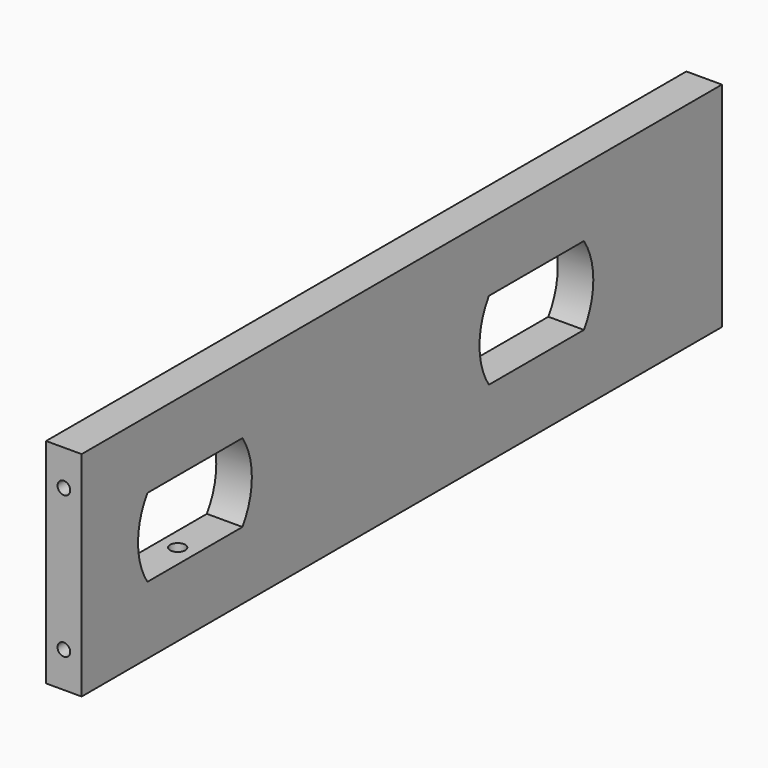
from build123d import *

# Parameters (mm, degrees)
F0_W           = 6.35
F0_H           = 142.875
F1_DEPTH       = 38.1
F3_D           = 2.7051
F3_DEPTH       = 15.0876
F3_TIP         = 0.8126940303
F6_D           = 2.2606
F6_DEPTH       = 13.7414
F6_TIP         = 0.6791527577
F6_ON_F4_D     = 2.2606
F6_ON_F4_DEPTH = 13.7414
F6_ON_F4_TIP   = 0.6791527577
F8_DEPTH       = 25.4


with BuildPart() as f1:
    # F0 (on Top) → F1 (new body)
    with BuildSketch(Plane.XY):
        Rectangle(F0_W, F0_H)
    extrude(amount=F1_DEPTH)

    # F3
    with Locations(Plane(origin=(0, 0, 0), x_dir=(1, 0, 0), z_dir=(0, 0, -1))):
        with Locations((0, 46.0375), (0, -46.0375)):
            Hole(F3_D / 2, depth=F3_DEPTH)
            with Locations((0, 0, -(F3_DEPTH + F3_TIP / 2))):  # 118° drill point
                Cone(0, F3_D / 2, F3_TIP, mode=Mode.SUBTRACT)

    # F6
    with Locations(Plane.XZ.offset(71.4375)):
        with Locations((0, 31.75), (0, 6.35)):
            Hole(F6_D / 2, depth=F6_DEPTH)
            with Locations((0, 0, -(F6_DEPTH + F6_TIP / 2))):  # 118° drill point
                Cone(0, F6_D / 2, F6_TIP, mode=Mode.SUBTRACT)

    # F6 on F4
    with Locations(Plane(origin=(0, 71.4375, 0), x_dir=(-1, 0, 0), z_dir=(0, 1, 0))):
        with Locations((0, 25.4), (0, 12.7)):
            Hole(F6_ON_F4_D / 2, depth=F6_ON_F4_DEPTH)
            with Locations((0, 0, -(F6_ON_F4_DEPTH + F6_ON_F4_TIP / 2))):  # 118° drill point
                Cone(0, F6_ON_F4_D / 2, F6_ON_F4_TIP, mode=Mode.SUBTRACT)

    # F7 (on face) → F8 (cut)
    with BuildSketch(Plane(origin=(-3.175, 0, 0), x_dir=(0, -1, 0), z_dir=(-1, 0, 0))):
        with BuildLine():
            Line((-19.4328204888, 26.035), (-40.6460027112, 26.035))
            ThreePointArc((-40.6460027112, 26.035), (-42.7394116, 19.05), (-40.6460027112, 12.065))
            Line((-40.6460027112, 12.065), (-19.4328204888, 12.065))
            ThreePointArc((-19.4328204888, 12.065), (-17.3394116, 19.05), (-19.4328204888, 26.035))
        make_face()
        with BuildLine():
            Line((35.5539972888, 12.065), (56.7671795112, 12.065))
            ThreePointArc((56.7671795112, 12.065), (58.8605884, 19.05), (56.7671795112, 26.035))
            Line((56.7671795112, 26.035), (35.5539972888, 26.035))
            ThreePointArc((35.5539972888, 26.035), (33.4605884, 19.05), (35.5539972888, 12.065))
        make_face()
    extrude(amount=-F8_DEPTH, mode=Mode.SUBTRACT)


solid = f1.part
